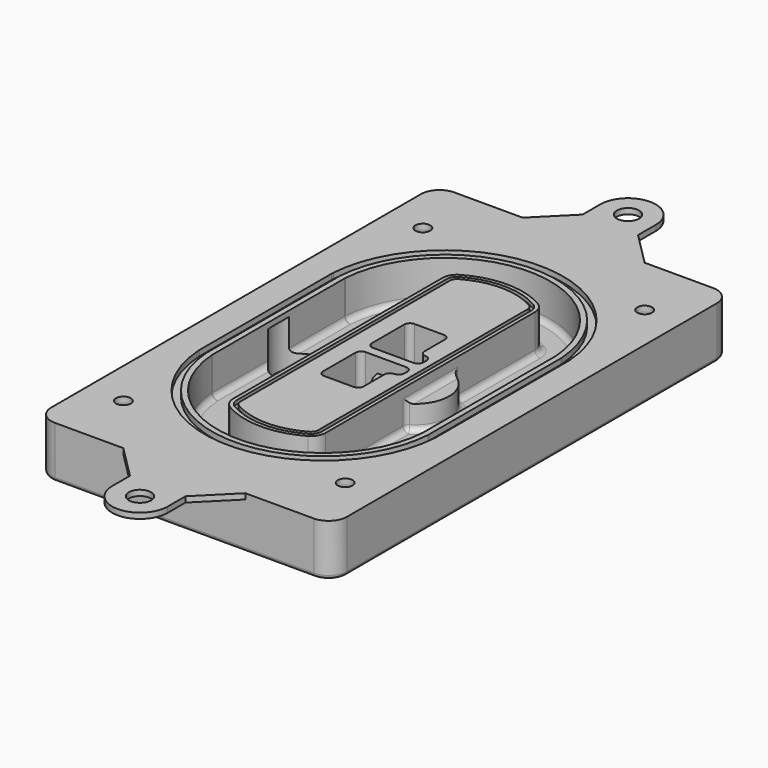
from build123d import *

# Parameters (mm, degrees)
F0_R      = 4
F1_DEPTH  = 25
F2_DEPTH  = 3
F3_DEPTH  = 18
F5_DEPTH  = 21
F6_DEPTH  = 2
F8_DEPTH  = 20
F9_DEPTH  = 16
F10_DEPTH = 25
F7_R      = 6
F7_R_2    = 4
F11_DEPTH = 6
F13_DEPTH = 9
F14_R     = 3
F15_R     = 2
F16_R     = 6
F17_DEPTH = 3


with BuildPart() as f1:
    # F0 (on Top) → F1 (new body)
    with BuildSketch(Plane.XY):
        with BuildLine():
            ThreePointArc((-80, -125), (-77.0710678119, -132.0710678119), (-70, -135))
            Line((-70, -135), (70, -135))
            ThreePointArc((70, -135), (77.0710678119, -132.0710678119), (80, -125))
            Line((80, -125), (80, 125))
            ThreePointArc((80, 125), (77.0710678119, 132.0710678119), (70, 135))
            Line((70, 135), (-70, 135))
            ThreePointArc((-70, 135), (-77.0710678119, 132.0710678119), (-80, 125))
            Line((-80, 125), (-80, -125))
        make_face()
        with Locations((-60, -101.25)):
            Circle(F0_R, mode=Mode.SUBTRACT)
        with Locations((60, -101.25)):
            Circle(F0_R, mode=Mode.SUBTRACT)
        with Locations((-60, 101.25)):
            Circle(F0_R, mode=Mode.SUBTRACT)
        with BuildLine():
            ThreePointArc((-64, 44.6627429245), (-63.991269098, 45.1571001106), (-63.9650872818, 45.650840699))
            ThreePointArc((-63.9650872818, 45.650840699), (0, 105.25), (63.9650872818, 45.650840699))
            ThreePointArc((63.9650872818, 45.650840699), (63.991269098, 45.1571001106), (64, 44.6627429245))
            Line((64, 44.6627429245), (64, -44.6627429245))
            ThreePointArc((64, -44.6627429245), (63.991269098, -45.1571001106), (63.9650872818, -45.650840699))
            ThreePointArc((63.9650872818, -45.650840699), (0, -105.25), (-63.9650872818, -45.650840699))
            ThreePointArc((-63.9650872818, -45.650840699), (-63.991269098, -45.1571001106), (-64, -44.6627429245))
            Line((-64, -44.6627429245), (-64, 44.6627429245))
        make_face(mode=Mode.SUBTRACT)
        with Locations((60, 101.25)):
            Circle(F0_R, mode=Mode.SUBTRACT)
        with BuildLine():
            ThreePointArc((63.9650872818, 45.650840699), (0, 105.25), (-63.9650872818, 45.650840699))
            ThreePointArc((-63.9650872818, 45.650840699), (-63.991269098, 45.1571001106), (-64, 44.6627429245))
            Line((-64, 44.6627429245), (-64, -44.6627429245))
            ThreePointArc((-64, -44.6627429245), (-63.991269098, -45.1571001106), (-63.9650872818, -45.650840699))
            ThreePointArc((-63.9650872818, -45.650840699), (0, -105.25), (63.9650872818, -45.650840699))
            ThreePointArc((63.9650872818, -45.650840699), (63.991269098, -45.1571001106), (64, -44.6627429245))
            Line((64, -44.6627429245), (64, 44.6627429245))
            ThreePointArc((64, 44.6627429245), (63.991269098, 45.1571001106), (63.9650872818, 45.650840699))
        make_face()
        with BuildLine():
            Line((-60, -44.6627429245), (-60, 44.6627429245))
            ThreePointArc((-60, 44.6627429245), (-59.9937636414, 45.0158552003), (-59.9750623441, 45.3685270491))
            ThreePointArc((-59.9750623441, 45.3685270491), (0, 101.25), (59.9750623441, 45.3685270491))
            ThreePointArc((59.9750623441, 45.3685270491), (59.9937636414, 45.0158552003), (60, 44.6627429245))
            Line((60, 44.6627429245), (60, -44.6627429245))
            ThreePointArc((60, -44.6627429245), (59.9937636414, -45.0158552003), (59.9750623441, -45.3685270491))
            ThreePointArc((59.9750623441, -45.3685270491), (0, -101.25), (-59.9750623441, -45.3685270491))
            ThreePointArc((-59.9750623441, -45.3685270491), (-59.9937636414, -45.0158552003), (-60, -44.6627429245))
        make_face(mode=Mode.SUBTRACT)
        with BuildLine():
            ThreePointArc((-59.9750623441, 45.3685270491), (-59.9937636414, 45.0158552003), (-60, 44.6627429245))
            Line((-60, 44.6627429245), (-60, -44.6627429245))
            ThreePointArc((-60, -44.6627429245), (-59.9937636414, -45.0158552003), (-59.9750623441, -45.3685270491))
            ThreePointArc((-59.9750623441, -45.3685270491), (0, -101.25), (59.9750623441, -45.3685270491))
            ThreePointArc((59.9750623441, -45.3685270491), (59.9937636414, -45.0158552003), (60, -44.6627429245))
            Line((60, -44.6627429245), (60, 44.6627429245))
            ThreePointArc((60, 44.6627429245), (59.9937636414, 45.0158552003), (59.9750623441, 45.3685270491))
            ThreePointArc((59.9750623441, 45.3685270491), (0, 101.25), (-59.9750623441, 45.3685270491))
        make_face()
        with BuildLine():
            ThreePointArc((56.9825436409, 45.1567918117), (56.995634549, 44.9099215176), (57, 44.6627429245))
            Line((57, 44.6627429245), (57, -44.6627429245))
            ThreePointArc((57, -44.6627429245), (56.995634549, -44.9099215176), (56.9825436409, -45.1567918117))
            ThreePointArc((56.9825436409, -45.1567918117), (0, -98.25), (-56.9825436409, -45.1567918117))
            ThreePointArc((-56.9825436409, -45.1567918117), (-56.995634549, -44.9099215176), (-57, -44.6627429245))
            Line((-57, -44.6627429245), (-57, 44.6627429245))
            ThreePointArc((-57, 44.6627429245), (-56.995634549, 44.9099215176), (-56.9825436409, 45.1567918117))
            ThreePointArc((-56.9825436409, 45.1567918117), (0, 98.25), (56.9825436409, 45.1567918117))
        make_face(mode=Mode.SUBTRACT)
        with BuildLine():
            Line((57, -44.6627429245), (57, 44.6627429245))
            ThreePointArc((57, 44.6627429245), (56.995634549, 44.9099215176), (56.9825436409, 45.1567918117))
            ThreePointArc((56.9825436409, 45.1567918117), (0, 98.25), (-56.9825436409, 45.1567918117))
            ThreePointArc((-56.9825436409, 45.1567918117), (-56.995634549, 44.9099215176), (-57, 44.6627429245))
            Line((-57, 44.6627429245), (-57, -44.6627429245))
            ThreePointArc((-57, -44.6627429245), (-56.995634549, -44.9099215176), (-56.9825436409, -45.1567918117))
            ThreePointArc((-56.9825436409, -45.1567918117), (0, -98.25), (56.9825436409, -45.1567918117))
            ThreePointArc((56.9825436409, -45.1567918117), (56.995634549, -44.9099215176), (57, -44.6627429245))
        make_face()
    extrude(amount=-F1_DEPTH)

    # F0 (on Top) → F2 (join)
    with BuildSketch(Plane.XY):
        with BuildLine():
            ThreePointArc((-59.9750623441, 45.3685270491), (-59.9937636414, 45.0158552003), (-60, 44.6627429245))
            Line((-60, 44.6627429245), (-60, -44.6627429245))
            ThreePointArc((-60, -44.6627429245), (-59.9937636414, -45.0158552003), (-59.9750623441, -45.3685270491))
            ThreePointArc((-59.9750623441, -45.3685270491), (0, -101.25), (59.9750623441, -45.3685270491))
            ThreePointArc((59.9750623441, -45.3685270491), (59.9937636414, -45.0158552003), (60, -44.6627429245))
            Line((60, -44.6627429245), (60, 44.6627429245))
            ThreePointArc((60, 44.6627429245), (59.9937636414, 45.0158552003), (59.9750623441, 45.3685270491))
            ThreePointArc((59.9750623441, 45.3685270491), (0, 101.25), (-59.9750623441, 45.3685270491))
        make_face()
        with BuildLine():
            ThreePointArc((56.9825436409, 45.1567918117), (56.995634549, 44.9099215176), (57, 44.6627429245))
            Line((57, 44.6627429245), (57, -44.6627429245))
            ThreePointArc((57, -44.6627429245), (56.995634549, -44.9099215176), (56.9825436409, -45.1567918117))
            ThreePointArc((56.9825436409, -45.1567918117), (0, -98.25), (-56.9825436409, -45.1567918117))
            ThreePointArc((-56.9825436409, -45.1567918117), (-56.995634549, -44.9099215176), (-57, -44.6627429245))
            Line((-57, -44.6627429245), (-57, 44.6627429245))
            ThreePointArc((-57, 44.6627429245), (-56.995634549, 44.9099215176), (-56.9825436409, 45.1567918117))
            ThreePointArc((-56.9825436409, 45.1567918117), (0, 98.25), (56.9825436409, 45.1567918117))
        make_face(mode=Mode.SUBTRACT)
    extrude(amount=F2_DEPTH)

    # F0 (on Top) → F3 (cut)
    with BuildSketch(Plane.XY):
        with BuildLine():
            Line((57, -44.6627429245), (57, 44.6627429245))
            ThreePointArc((57, 44.6627429245), (56.995634549, 44.9099215176), (56.9825436409, 45.1567918117))
            ThreePointArc((56.9825436409, 45.1567918117), (0, 98.25), (-56.9825436409, 45.1567918117))
            ThreePointArc((-56.9825436409, 45.1567918117), (-56.995634549, 44.9099215176), (-57, 44.6627429245))
            Line((-57, 44.6627429245), (-57, -44.6627429245))
            ThreePointArc((-57, -44.6627429245), (-56.995634549, -44.9099215176), (-56.9825436409, -45.1567918117))
            ThreePointArc((-56.9825436409, -45.1567918117), (0, -98.25), (56.9825436409, -45.1567918117))
            ThreePointArc((56.9825436409, -45.1567918117), (56.995634549, -44.9099215176), (57, -44.6627429245))
        make_face()
    extrude(amount=-F3_DEPTH, mode=Mode.SUBTRACT)

    # F4 (on face) → F5 (join, through all)
    with BuildSketch(Plane.XY.offset(3)):
        with BuildLine():
            ThreePointArc((-25, -70.7141132851), (-23.9239722661, -74.7214325959), (-20.9853479853, -77.6507552274))
            ThreePointArc((-20.9853479853, -77.6507552274), (0, -83.25), (20.9853479853, -77.6507552274))
            ThreePointArc((20.9853479853, -77.6507552274), (23.9239722661, -74.7214325959), (25, -70.7141132851))
            Line((25, -70.7141132851), (25, 70.7141132851))
            ThreePointArc((25, 70.7141132851), (23.9239722661, 74.7214325959), (20.9853479853, 77.6507552274))
            ThreePointArc((20.9853479853, 77.6507552274), (0, 83.25), (-20.9853479853, 77.6507552274))
            ThreePointArc((-20.9853479853, 77.6507552274), (-23.9239722661, 74.7214325959), (-25, 70.7141132851))
            Line((-25, 70.7141132851), (-25, -70.7141132851))
        make_face()
        with BuildLine():
            ThreePointArc((19.989010989, 75.9165947419), (22.1929791996, 73.7196027682), (23, 70.7141132851))
            Line((23, 70.7141132851), (23, -70.7141132851))
            ThreePointArc((23, -70.7141132851), (22.1929791996, -73.7196027682), (19.989010989, -75.9165947419))
            ThreePointArc((19.989010989, -75.9165947419), (0, -81.25), (-19.989010989, -75.9165947419))
            ThreePointArc((-19.989010989, -75.9165947419), (-22.1929791996, -73.7196027682), (-23, -70.7141132851))
            Line((-23, -70.7141132851), (-23, 70.7141132851))
            ThreePointArc((-23, 70.7141132851), (-22.1929791996, 73.7196027682), (-19.989010989, 75.9165947419))
            ThreePointArc((-19.989010989, 75.9165947419), (0, 81.25), (19.989010989, 75.9165947419))
        make_face(mode=Mode.SUBTRACT)
        with BuildLine():
            Line((23, -70.7141132851), (23, 70.7141132851))
            ThreePointArc((23, 70.7141132851), (22.1929791996, 73.7196027682), (19.989010989, 75.9165947419))
            ThreePointArc((19.989010989, 75.9165947419), (0, 81.25), (-19.989010989, 75.9165947419))
            ThreePointArc((-19.989010989, 75.9165947419), (-22.1929791996, 73.7196027682), (-23, 70.7141132851))
            Line((-23, 70.7141132851), (-23, -70.7141132851))
            ThreePointArc((-23, -70.7141132851), (-22.1929791996, -73.7196027682), (-19.989010989, -75.9165947419))
            ThreePointArc((-19.989010989, -75.9165947419), (0, -81.25), (19.989010989, -75.9165947419))
            ThreePointArc((19.989010989, -75.9165947419), (22.1929791996, -73.7196027682), (23, -70.7141132851))
        make_face()
        with BuildLine():
            ThreePointArc((18.9926739927, 74.1824342563), (20.461986133, 72.7177729405), (21, 70.7141132851))
            Line((21, 70.7141132851), (21, -70.7141132851))
            ThreePointArc((21, -70.7141132851), (20.461986133, -72.7177729405), (18.9926739927, -74.1824342563))
            ThreePointArc((18.9926739927, -74.1824342563), (0, -79.25), (-18.9926739927, -74.1824342563))
            ThreePointArc((-18.9926739927, -74.1824342563), (-20.461986133, -72.7177729405), (-21, -70.7141132851))
            Line((-21, -70.7141132851), (-21, 70.7141132851))
            ThreePointArc((-21, 70.7141132851), (-20.461986133, 72.7177729405), (-18.9926739927, 74.1824342563))
            ThreePointArc((-18.9926739927, 74.1824342563), (0, 79.25), (18.9926739927, 74.1824342563))
        make_face(mode=Mode.SUBTRACT)
        with BuildLine():
            Line((21, -70.7141132851), (21, 70.7141132851))
            ThreePointArc((21, 70.7141132851), (20.461986133, 72.7177729405), (18.9926739927, 74.1824342563))
            ThreePointArc((18.9926739927, 74.1824342563), (0, 79.25), (-18.9926739927, 74.1824342563))
            ThreePointArc((-18.9926739927, 74.1824342563), (-20.461986133, 72.7177729405), (-21, 70.7141132851))
            Line((-21, 70.7141132851), (-21, -70.7141132851))
            ThreePointArc((-21, -70.7141132851), (-20.461986133, -72.7177729405), (-18.9926739927, -74.1824342563))
            ThreePointArc((-18.9926739927, -74.1824342563), (0, -79.25), (18.9926739927, -74.1824342563))
            ThreePointArc((18.9926739927, -74.1824342563), (20.461986133, -72.7177729405), (21, -70.7141132851))
        make_face()
        with BuildLine():
            Line((-8, -2.5), (14, -2.5))
            ThreePointArc((14, -2.5), (16.1213203436, -3.3786796564), (17, -5.5))
            Line((17, -5.5), (17, -7.5))
            ThreePointArc((17, -7.5), (16.1213203436, -9.6213203436), (14, -10.5))
            ThreePointArc((14, -10.5), (11.8786796564, -11.3786796564), (11, -13.5))
            Line((11, -13.5), (11, -27.5))
            ThreePointArc((11, -27.5), (10.1213203436, -29.6213203436), (8, -30.5))
            Line((8, -30.5), (-8, -30.5))
            ThreePointArc((-8, -30.5), (-10.1213203436, -29.6213203436), (-11, -27.5))
            Line((-11, -27.5), (-11, -5.5))
            ThreePointArc((-11, -5.5), (-10.1213203436, -3.3786796564), (-8, -2.5))
        make_face(mode=Mode.SUBTRACT)
        with BuildLine():
            ThreePointArc((-8, 2.5), (-10.1213203436, 3.3786796564), (-11, 5.5))
            Line((-11, 5.5), (-11, 27.5))
            ThreePointArc((-11, 27.5), (-10.1213203436, 29.6213203436), (-8, 30.5))
            Line((-8, 30.5), (8, 30.5))
            ThreePointArc((8, 30.5), (10.1213203436, 29.6213203436), (11, 27.5))
            Line((11, 27.5), (11, 13.5))
            ThreePointArc((11, 13.5), (11.8786796564, 11.3786796564), (14, 10.5))
            ThreePointArc((14, 10.5), (16.1213203436, 9.6213203436), (17, 7.5))
            Line((17, 7.5), (17, 5.5))
            ThreePointArc((17, 5.5), (16.1213203436, 3.3786796564), (14, 2.5))
            Line((14, 2.5), (-8, 2.5))
        make_face(mode=Mode.SUBTRACT)
    extrude(amount=-F5_DEPTH)

    # F4 (on face) → F6 (cut)
    with BuildSketch(Plane.XY.offset(3)):
        with BuildLine():
            Line((23, -70.7141132851), (23, 70.7141132851))
            ThreePointArc((23, 70.7141132851), (22.1929791996, 73.7196027682), (19.989010989, 75.9165947419))
            ThreePointArc((19.989010989, 75.9165947419), (0, 81.25), (-19.989010989, 75.9165947419))
            ThreePointArc((-19.989010989, 75.9165947419), (-22.1929791996, 73.7196027682), (-23, 70.7141132851))
            Line((-23, 70.7141132851), (-23, -70.7141132851))
            ThreePointArc((-23, -70.7141132851), (-22.1929791996, -73.7196027682), (-19.989010989, -75.9165947419))
            ThreePointArc((-19.989010989, -75.9165947419), (0, -81.25), (19.989010989, -75.9165947419))
            ThreePointArc((19.989010989, -75.9165947419), (22.1929791996, -73.7196027682), (23, -70.7141132851))
        make_face()
        with BuildLine():
            ThreePointArc((18.9926739927, 74.1824342563), (20.461986133, 72.7177729405), (21, 70.7141132851))
            Line((21, 70.7141132851), (21, -70.7141132851))
            ThreePointArc((21, -70.7141132851), (20.461986133, -72.7177729405), (18.9926739927, -74.1824342563))
            ThreePointArc((18.9926739927, -74.1824342563), (0, -79.25), (-18.9926739927, -74.1824342563))
            ThreePointArc((-18.9926739927, -74.1824342563), (-20.461986133, -72.7177729405), (-21, -70.7141132851))
            Line((-21, -70.7141132851), (-21, 70.7141132851))
            ThreePointArc((-21, 70.7141132851), (-20.461986133, 72.7177729405), (-18.9926739927, 74.1824342563))
            ThreePointArc((-18.9926739927, 74.1824342563), (0, 79.25), (18.9926739927, 74.1824342563))
        make_face(mode=Mode.SUBTRACT)
    extrude(amount=-F6_DEPTH, mode=Mode.SUBTRACT)

    # F7 (on face) → F8 (join)
    with BuildSketch(Plane(origin=(0, 0, -25), x_dir=(1, 0, 0), z_dir=(0, 0, -1))):
        with BuildLine():
            ThreePointArc((3.28842436, 0), (16.7567035675, 13.4682792075), (30.224982775, 0))
            Line((30.224982775, 0), (35.224982775, 0))
            ThreePointArc((35.224982775, 0), (16.7567035675, 18.4682792075), (-1.71157564, 0))
            Line((-1.71157564, 0), (3.28842436, 0))
        make_face()
        with BuildLine():
            Line((3.28842436, 0), (30.224982775, 0))
            ThreePointArc((30.224982775, 0), (16.7567035675, 13.4682792075), (3.28842436, 0))
        make_face()
        with BuildLine():
            ThreePointArc((3.28842436, 0), (16.7567035675, -13.4682792075), (30.224982775, 0))
            Line((30.224982775, 0), (3.28842436, 0))
        make_face()
        with BuildLine():
            Line((35.224982775, 0), (30.224982775, 0))
            ThreePointArc((30.224982775, 0), (16.7567035675, -13.4682792075), (3.28842436, 0))
            Line((3.28842436, 0), (-1.71157564, 0))
            ThreePointArc((-1.71157564, 0), (16.7567035675, -18.4682792075), (35.224982775, 0))
        make_face()
    extrude(amount=-F8_DEPTH)

    # F7 (on face) → F9 (cut)
    with BuildSketch(Plane(origin=(0, 0, -25), x_dir=(1, 0, 0), z_dir=(0, 0, -1))):
        with BuildLine():
            Line((3.28842436, 0), (30.224982775, 0))
            ThreePointArc((30.224982775, 0), (16.7567035675, 13.4682792075), (3.28842436, 0))
        make_face()
        with BuildLine():
            ThreePointArc((3.28842436, 0), (16.7567035675, -13.4682792075), (30.224982775, 0))
            Line((30.224982775, 0), (3.28842436, 0))
        make_face()
    extrude(amount=-F9_DEPTH, mode=Mode.SUBTRACT)

    # F7 (on face) → F10 (cut)
    with BuildSketch(Plane(origin=(0, 0, -25), x_dir=(1, 0, 0), z_dir=(0, 0, -1))):
        with BuildLine():
            Line((-59.0318229325, 0), (-32.0952645175, 0))
            ThreePointArc((-32.0952645175, 0), (-45.563543725, 13.4682792075), (-59.0318229325, 0))
        make_face()
        with BuildLine():
            ThreePointArc((-59.0318229325, 0), (-45.563543725, -13.4682792075), (-32.0952645175, 0))
            Line((-32.0952645175, 0), (-59.0318229325, 0))
        make_face()
    extrude(amount=-F10_DEPTH, mode=Mode.SUBTRACT)

    # F7 (on face) → F11 (cut)
    with BuildSketch(Plane(origin=(0, 0, -25), x_dir=(1, 0, 0), z_dir=(0, 0, -1))):
        with Locations((60, -101.25)):
            Circle(F7_R)
        with Locations((60, -101.25)):
            Circle(F7_R_2, mode=Mode.SUBTRACT)
        with Locations((60, -101.25)):
            Circle(F7_R)
        with Locations((60, -101.25)):
            Circle(F7_R_2, mode=Mode.SUBTRACT)
        with Locations((-60, -101.25)):
            Circle(F7_R)
        with Locations((-60, -101.25)):
            Circle(F7_R_2, mode=Mode.SUBTRACT)
        with Locations((-60, -101.25)):
            Circle(F7_R)
        with Locations((-60, -101.25)):
            Circle(F7_R_2, mode=Mode.SUBTRACT)
        with Locations((-60, 101.25)):
            Circle(F7_R)
        with Locations((-60, 101.25)):
            Circle(F7_R_2, mode=Mode.SUBTRACT)
        with Locations((-60, 101.25)):
            Circle(F7_R)
        with Locations((-60, 101.25)):
            Circle(F7_R_2, mode=Mode.SUBTRACT)
        with Locations((60, 101.25)):
            Circle(F7_R)
        with Locations((60, 101.25)):
            Circle(F7_R_2, mode=Mode.SUBTRACT)
        with Locations((60, 101.25)):
            Circle(F7_R)
        with Locations((60, 101.25)):
            Circle(F7_R_2, mode=Mode.SUBTRACT)
    extrude(amount=-F11_DEPTH, mode=Mode.SUBTRACT)

    # F12 (on face) → F13 (cut, through all)
    with BuildSketch(Plane(origin=(0, 0, -9), x_dir=(1, 0, 0), z_dir=(0, 0, -1))):
        with BuildLine():
            Line((11, 13.5), (11, 17.5481537753))
            ThreePointArc((11, 17.5481537753), (2.5696536419, 11.8239143813), (-1.5415842455, 2.5))
            Line((-1.5415842455, 2.5), (3.5224848595, 2.5))
            ThreePointArc((3.5224848595, 2.5), (6.1857188154, 8.3455872281), (11.2536447004, 12.2927168648))
            ThreePointArc((11.2536447004, 12.2927168648), (11.0640958889, 12.8831798879), (11, 13.5))
        make_face()
        with BuildLine():
            ThreePointArc((11.2536447004, -12.2927168648), (6.1857188154, -8.3455872281), (3.5224848595, -2.5))
            Line((3.5224848595, -2.5), (-1.5415842455, -2.5))
            ThreePointArc((-1.5415842455, -2.5), (2.5696536419, -11.8239143813), (11, -17.5481537753))
            Line((11, -17.5481537753), (11, -13.5))
            ThreePointArc((11, -13.5), (11.0640958889, -12.8831798879), (11.2536447004, -12.2927168648))
        make_face()
        with BuildLine():
            ThreePointArc((11.2536447004, 12.2927168648), (6.1857188154, 8.3455872281), (3.5224848595, 2.5))
            Line((3.5224848595, 2.5), (14, 2.5))
            ThreePointArc((14, 2.5), (16.1213203436, 3.3786796564), (17, 5.5))
            Line((17, 5.5), (17, 7.5))
            ThreePointArc((17, 7.5), (16.1213203436, 9.6213203436), (14, 10.5))
            ThreePointArc((14, 10.5), (12.3601599782, 10.9878446101), (11.2536447004, 12.2927168648))
        make_face()
        with BuildLine():
            Line((14, -2.5), (3.5224848595, -2.5))
            ThreePointArc((3.5224848595, -2.5), (6.1857188154, -8.3455872281), (11.2536447004, -12.2927168648))
            ThreePointArc((11.2536447004, -12.2927168648), (12.3601599782, -10.9878446101), (14, -10.5))
            ThreePointArc((14, -10.5), (16.1213203436, -9.6213203436), (17, -7.5))
            Line((17, -7.5), (17, -5.5))
            ThreePointArc((17, -5.5), (16.1213203436, -3.3786796564), (14, -2.5))
        make_face()
    extrude(amount=F13_DEPTH, mode=Mode.SUBTRACT)

    # F14
    f14_edges = [f1.edges().sort_by_distance(p)[0] for p in [
        (-57, -25.888126, -18),
        (-57, 25.888126, -18),
        (25, 0, -5),
        (25, 16.526506, -11.5),
        (25, -16.526506, -11.5),
        (25, -43.62031, -18),
        (35.224983, 0, -18),
    ]]
    fillet(f14_edges, radius=F14_R)

    # F15
    f15_edges = [f1.edges().sort_by_distance(p)[0] for p in [
        (0, -135, -25),
    ]]
    fillet(f15_edges, radius=F15_R)

    # F16 (on face) + F0 (on Top) → F17 (join, through all)
    with BuildSketch(Plane.XY):
        with BuildLine():
            Line((33, -135), (-33, -135))
            Line((-33, -135), (-15, -153))
            Line((-15, -153), (-15, -165))
            ThreePointArc((-15, -165), (0, -180), (15, -165))
            Line((15, -165), (15, -153))
            Line((15, -153), (33, -135))
        make_face()
        with Locations((0, -165)):
            Circle(F16_R, mode=Mode.SUBTRACT)
        with BuildLine():
            Line((-15, 153), (-33, 135))
            Line((-33, 135), (33, 135))
            Line((33, 135), (15, 153))
            Line((15, 153), (15, 165))
            ThreePointArc((15, 165), (0, 180), (-15, 165))
            Line((-15, 165), (-15, 153))
        make_face()
        with Locations((0, 165)):
            Circle(F16_R, mode=Mode.SUBTRACT)
    with BuildSketch(Plane.XY):
        with BuildLine():
            ThreePointArc((-80, -125), (-77.0710678119, -132.0710678119), (-70, -135))
            Line((-70, -135), (70, -135))
            ThreePointArc((70, -135), (77.0710678119, -132.0710678119), (80, -125))
            Line((80, -125), (80, 125))
            ThreePointArc((80, 125), (77.0710678119, 132.0710678119), (70, 135))
            Line((70, 135), (-70, 135))
            ThreePointArc((-70, 135), (-77.0710678119, 132.0710678119), (-80, 125))
            Line((-80, 125), (-80, -125))
        make_face()
        with Locations((-60, -101.25)):
            Circle(F0_R, mode=Mode.SUBTRACT)
        with Locations((60, -101.25)):
            Circle(F0_R, mode=Mode.SUBTRACT)
        with Locations((-60, 101.25)):
            Circle(F0_R, mode=Mode.SUBTRACT)
        with BuildLine():
            ThreePointArc((-64, 44.6627429245), (-63.991269098, 45.1571001106), (-63.9650872818, 45.650840699))
            ThreePointArc((-63.9650872818, 45.650840699), (0, 105.25), (63.9650872818, 45.650840699))
            ThreePointArc((63.9650872818, 45.650840699), (63.991269098, 45.1571001106), (64, 44.6627429245))
            Line((64, 44.6627429245), (64, -44.6627429245))
            ThreePointArc((64, -44.6627429245), (63.991269098, -45.1571001106), (63.9650872818, -45.650840699))
            ThreePointArc((63.9650872818, -45.650840699), (0, -105.25), (-63.9650872818, -45.650840699))
            ThreePointArc((-63.9650872818, -45.650840699), (-63.991269098, -45.1571001106), (-64, -44.6627429245))
            Line((-64, -44.6627429245), (-64, 44.6627429245))
        make_face(mode=Mode.SUBTRACT)
        with Locations((60, 101.25)):
            Circle(F0_R, mode=Mode.SUBTRACT)
    extrude(amount=F17_DEPTH)


solid = f1.part
